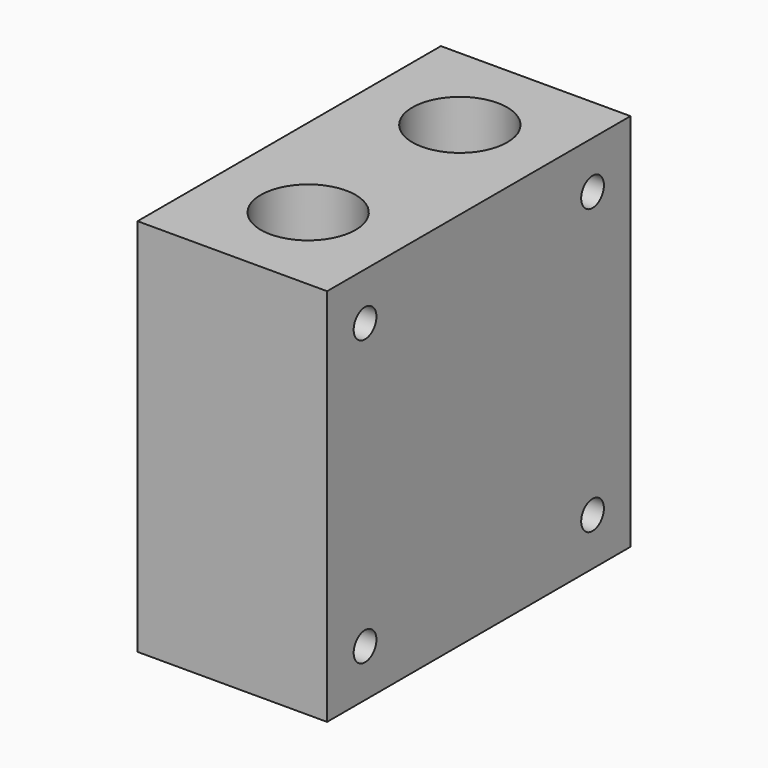
from build123d import *

# Parameters (mm, degrees)
F0_W     = 40
F0_H     = 80
F0_R     = 10
F1_DEPTH = 80
F2_R     = 3
F3_DEPTH = 10


with BuildPart() as f1:
    # F0 (on Top) → F1 (new body)
    with BuildSketch(Plane.XY):
        Rectangle(F0_W, F0_H)
        with Locations((0, -20)):
            Circle(F0_R, mode=Mode.SUBTRACT)
        with Locations((0, 20)):
            Circle(F0_R, mode=Mode.SUBTRACT)
    extrude(amount=F1_DEPTH)

    # F2 (on face) → F3 (cut)
    with BuildSketch(Plane.YZ.offset(20)):
        with Locations((30, 70)):
            Circle(F2_R)
        with Locations((-30, 70)):
            Circle(F2_R)
        with Locations((-30, 10)):
            Circle(F2_R)
        with Locations((30, 10)):
            Circle(F2_R)
    extrude(amount=-F3_DEPTH, mode=Mode.SUBTRACT)


solid = f1.part
